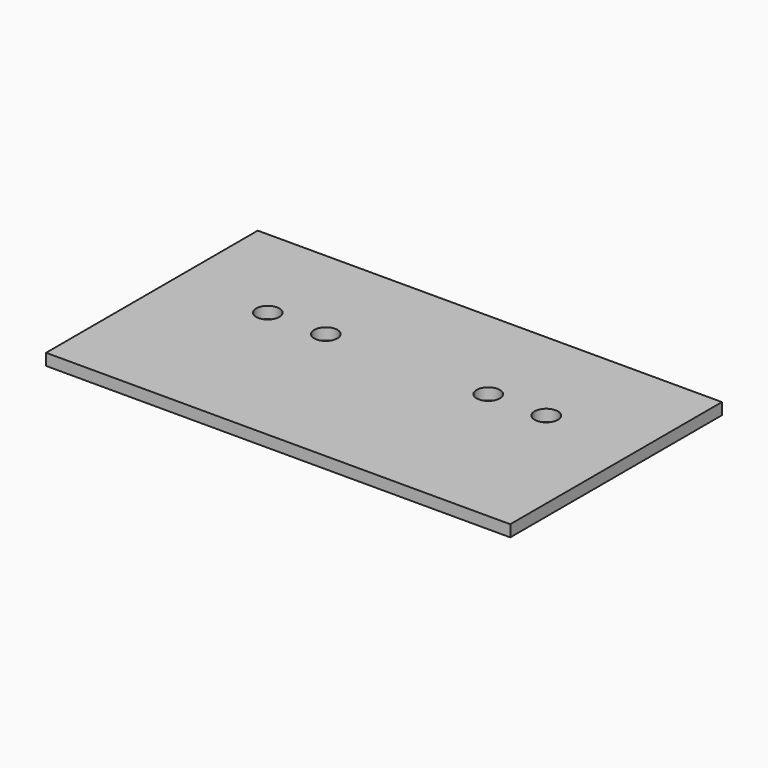
from build123d import *

# Parameters (mm, degrees)
F0_W     = 1000
F0_H     = 570
F0_R     = 25
F1_DEPTH = 25
F2_DEPTH = 25
F3_DEPTH = 25


with BuildPart() as f1:
    # F0 (on Top) → F1 (new body)
    with BuildSketch(Plane.XY):
        with Locations((-329.635155, -145.5779)):
            Rectangle(F0_W, F0_H)
        with Locations((-629.635155, -83.5779)):
            Circle(F0_R, mode=Mode.SUBTRACT)
        with Locations((-504.635155, -83.5779)):
            Circle(F0_R, mode=Mode.SUBTRACT)
        with Locations((-154.635155, -83.5779)):
            Circle(F0_R, mode=Mode.SUBTRACT)
        with Locations((-29.635155, -83.5779)):
            Circle(F0_R, mode=Mode.SUBTRACT)
    extrude(amount=F1_DEPTH)

    # F0 (on Top) → F2 (join)
    with BuildSketch(Plane.XY):
        with Locations((-329.635155, -145.5779)):
            Rectangle(F0_W, F0_H)
        with Locations((-629.635155, -83.5779)):
            Circle(F0_R, mode=Mode.SUBTRACT)
        with Locations((-504.635155, -83.5779)):
            Circle(F0_R, mode=Mode.SUBTRACT)
        with Locations((-154.635155, -83.5779)):
            Circle(F0_R, mode=Mode.SUBTRACT)
        with Locations((-29.635155, -83.5779)):
            Circle(F0_R, mode=Mode.SUBTRACT)
    extrude(amount=F2_DEPTH)

    # F0 (on Top) → F3 (join)
    with BuildSketch(Plane.XY):
        with Locations((-329.635155, -145.5779)):
            Rectangle(F0_W, F0_H)
        with Locations((-629.635155, -83.5779)):
            Circle(F0_R, mode=Mode.SUBTRACT)
        with Locations((-504.635155, -83.5779)):
            Circle(F0_R, mode=Mode.SUBTRACT)
        with Locations((-154.635155, -83.5779)):
            Circle(F0_R, mode=Mode.SUBTRACT)
        with Locations((-29.635155, -83.5779)):
            Circle(F0_R, mode=Mode.SUBTRACT)
    extrude(amount=F3_DEPTH)


solid = f1.part
